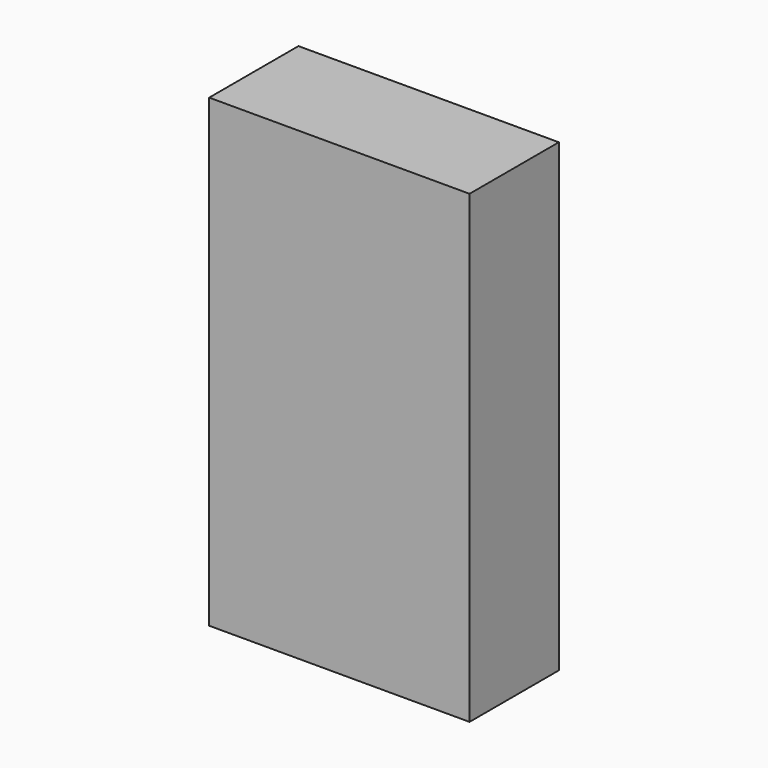
from build123d import *

# Parameters (mm, degrees)
SKETCH_W      = 88.9
SKETCH_H      = 38.1
EXTRUDE_DEPTH = 158.75


with BuildPart() as part:
    # Sketch → Extrude (new body)
    with BuildSketch(Plane.XY):
        with Locations((44.45, 19.05)):
            Rectangle(SKETCH_W, SKETCH_H)
    extrude(amount=EXTRUDE_DEPTH)


solid = part.part
